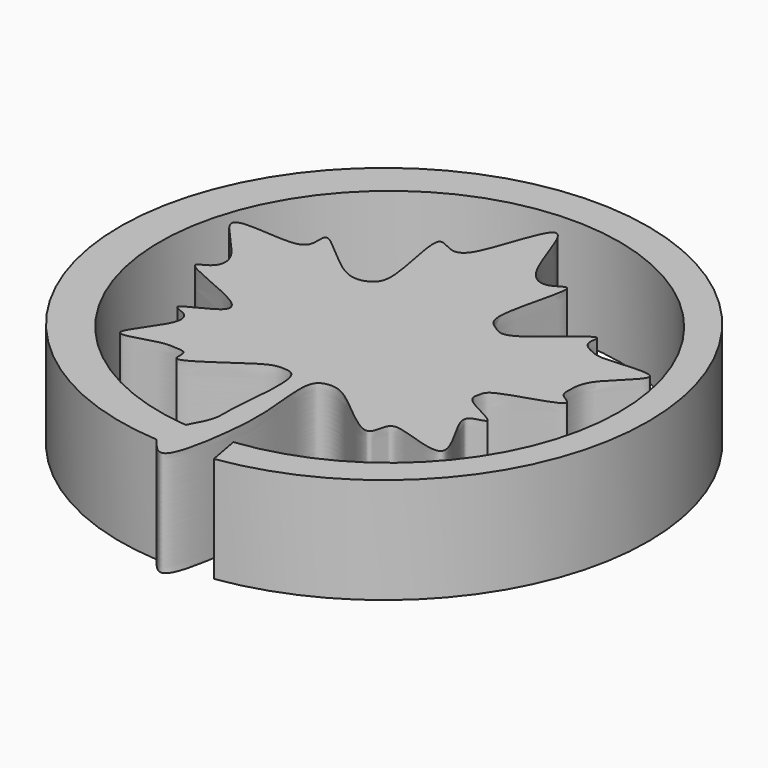
from build123d import *

# Parameters (mm, degrees)
F1_DEPTH = 2


with BuildPart() as f1:
    # F0 (on Top) → F1 (new body)
    with BuildSketch(Plane.XY):
        with BuildLine():
            ThreePointArc((-2.0710265816, 2.6823100121), (-1.7288883618, 11.3734751785), (-1.1749037427, 2.6932383412))
            Line((-1.1749037427, 2.6932383412), (-1.0656203819, 2.0921805272))
            ThreePointArc((-1.0656203819, 2.0921805272), (-2.0053376017, 12.0340378442), (-2.1147398624, 2.0484669287))
            add(Edge.make_bspline(
                [(-2.0710265816, 2.6823100121), (-1.9876524167, 2.8335958794), (-1.8241080541, 3.1303538832), (-1.8957124769, 3.5070288526), (-1.6726027947, 4.9781098862), (-2.1030570697, 5.0042367323), (-2.3940668436, 4.995607217), (-3.6376583011, 3.9924591215), (-3.4755228018, 4.503613536), (-3.7307035997, 4.520703835), (-4.0103603584, 4.5504998944), (-5.045999289, 4.1420242131), (-4.1370088572, 5.1335576663), (-4.2739569611, 5.4818234956), (-4.7504058374, 5.5591125623), (-3.740291006, 5.9025099596), (-4.0695116491, 6.3156863144), (-5.4229231159, 6.7542731494), (-4.9137056623, 6.8757994414), (-4.737128794, 7.3457479236), (-6.1383271794, 8.4199920051), (-4.5776649723, 8.1557430809), (-4.1712152894, 8.2939048847), (-4.32595735, 8.9658453998), (-3.3213139877, 7.848775435), (-2.8157020491, 7.9191440569), (-2.5225471589, 8.2308217663), (-3.0265528179, 9.8592768069), (-2.5130581616, 9.4684178502), (-2.1068207996, 9.5246578839), (-1.6416460865, 11.7320589826), (-1.2161465402, 9.6652952064), (-0.7025061371, 9.419925888), (-0.1820228798, 9.9167561293), (-0.8007459489, 8.1777582887), (-0.4175901247, 7.9790730765), (-0.1206316887, 7.7238690193), (1.0869498104, 8.9468872202), (0.8712507838, 8.4072758798), (1.1795585198, 8.2567477575), (1.4053547405, 8.1612081825), (2.7836258575, 8.3788492706), (1.6654632847, 7.558604549), (1.6642264239, 7.1265202873), (1.6558192513, 6.882884837), (2.1775095973, 6.7022342237), (0.7384871608, 6.3851888378), (0.7230825363, 6.1535212847), (0.6344104954, 5.9013358838), (1.5849922776, 5.5528020767), (1.0172481231, 5.5112997387), (1.0132978258, 5.2197084853), (1.8058215277, 4.08616964), (0.5830615022, 4.5786635664), (0.2367134621, 4.5979958901), (0.2496851904, 3.9031627887), (-0.7950848519, 4.9447489503), (-1.1787707444, 5.0396923042), (-1.5419472573, 4.9285405579), (-1.3902475639, 3.9147172383), (-1.3981888002, 3.0055307612), (-1.6661433778, 1.4709598696), (-1.9901283995, 1.8880465911), (-2.1147398624, 2.0484669287)],
                knots=[0, 0, 0, 0, 0.0152265409, 0.0298679444, 0.0555270348, 0.0667083517, 0.0800263693, 0.1048632697, 0.1147463554, 0.124045472, 0.1373480723, 0.1549479777, 0.1754816663, 0.1881182333, 0.198392928, 0.216874271, 0.2300125931, 0.2539813012, 0.26432787, 0.2784923487, 0.3016279882, 0.3233423443, 0.3374459428, 0.3493120475, 0.3727008839, 0.3879046525, 0.4013949332, 0.4269288868, 0.4387170609, 0.4518679977, 0.4777654129, 0.5023762507, 0.5183227197, 0.5300358489, 0.5560662598, 0.569245449, 0.5815841304, 0.6067397493, 0.6168313159, 0.6285131223, 0.6411032821, 0.661539483, 0.6817165169, 0.6966674454, 0.7069222747, 0.7174020497, 0.7409526655, 0.751147186, 0.7610302721, 0.7793889875, 0.7904475585, 0.8015639378, 0.8225242706, 0.8427091517, 0.8549863611, 0.8675621424, 0.8912825469, 0.9060054202, 0.9170586944, 0.9377518414, 0.9614609669, 0.9851770762, 1, 1, 1, 1], degree=3))
        make_face()
    extrude(amount=F1_DEPTH)


solid = f1.part
